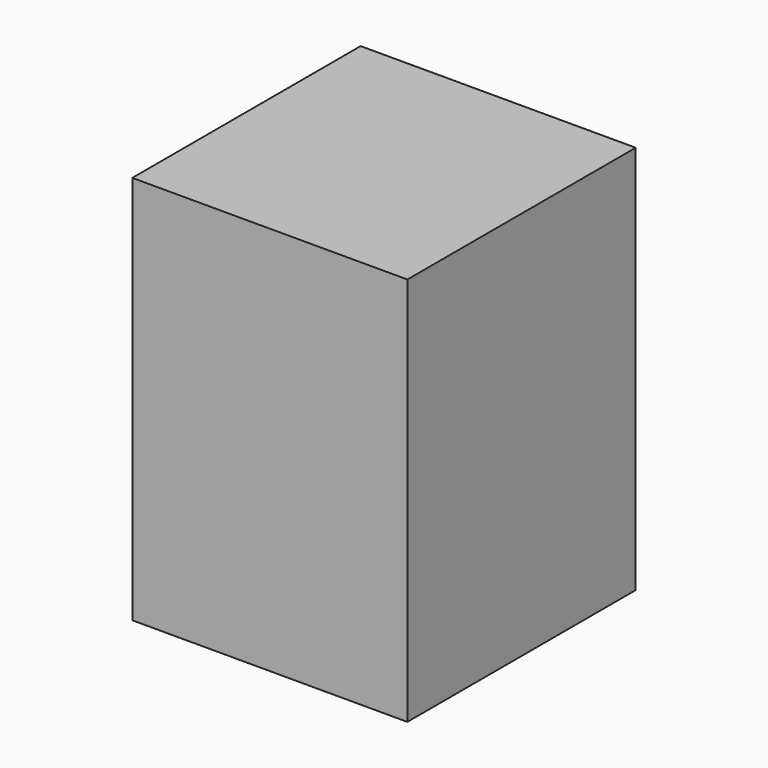
from build123d import *

# Parameters (mm, degrees)
F0_W     = 107.63935
F0_H     = 111.668632
F1_DEPTH = 152.4
F2_R     = 38.476732
F3_DEPTH = 152.4


with BuildPart() as f1:
    # F0 (on Top) → F1 (new body)
    with BuildSketch(Plane.XY):
        Rectangle(F0_W, F0_H)
    extrude(amount=F1_DEPTH)

    # F2 (on Top) → F3 (join)
    with BuildSketch(Plane.XY):
        Circle(F2_R)
    extrude(amount=F3_DEPTH)


solid = f1.part
